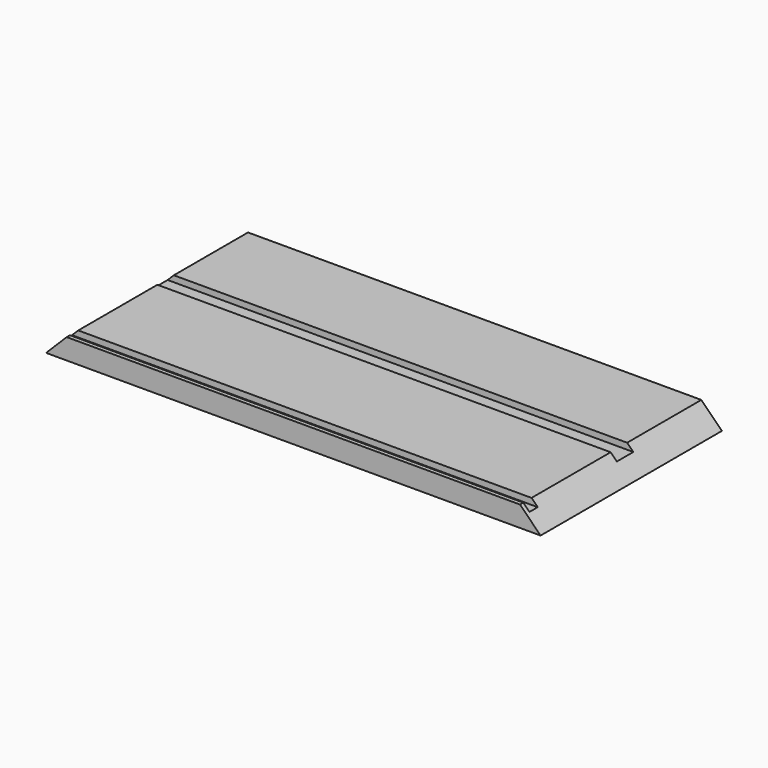
from build123d import *

# Parameters (mm, degrees)
F0_W     = 304.8
F0_H     = 139.7
F2_W     = 279.4
F2_H     = 139.7
F4_W     = 292.1
F4_H     = 6.35
F4_H_2   = 12.7
F5_DEPTH = 3.81


with BuildPart() as f3:
    # F0 (on Top) → F3 section 0
    with BuildSketch(Plane.XY):
        with Locations((0, -6.35)):
            Rectangle(F0_W, F0_H)
    # F2 (on offset) → F3 section 1
    with BuildSketch(Plane.XY.offset(12.7)):
        with Locations((0, -6.35)):
            Rectangle(F2_W, F2_H)
    loft()

    # F4 (on offset) → F5 (cut)
    with BuildSketch(Plane.XY.offset(12.7)):
        with Locations((0, -70.485)):
            Rectangle(F4_W, F4_H)
        Rectangle(F4_W, F4_H_2)
    extrude(amount=-F5_DEPTH, mode=Mode.SUBTRACT)


solid = f3.part
